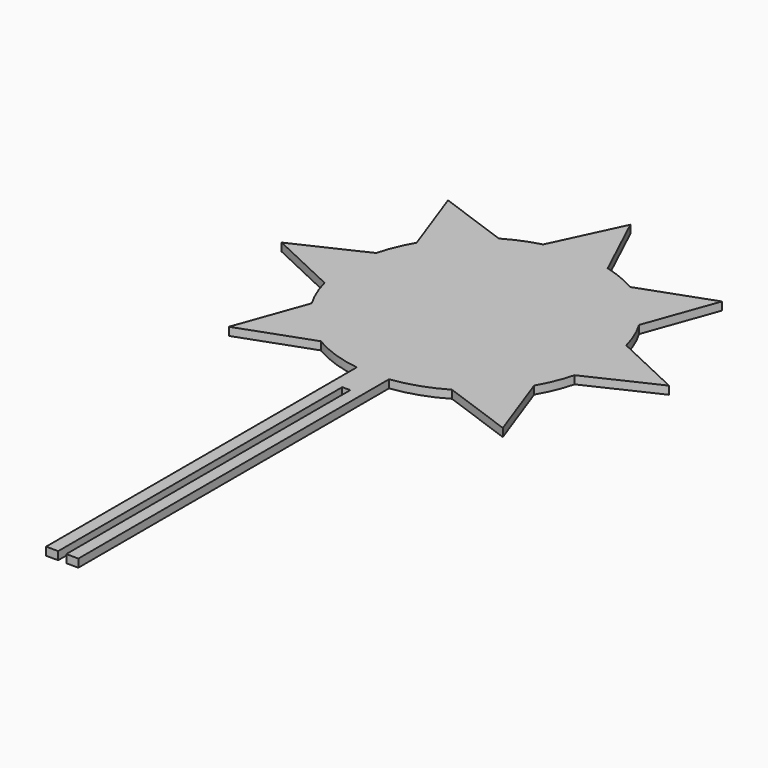
from build123d import *

# Parameters (mm, degrees)
F1_DEPTH = 3.175


with BuildPart() as f1:
    # F0 (on Top) → F1 (new body)
    with BuildSketch(Plane.XY):
        with BuildLine():
            Line((-6.35, 51.198438), (-6.35, -101.6))
            Line((-6.35, -101.6), (-1.5875, -101.6))
            Line((-1.5875, -101.6), (-1.5875, 38.1))
            Line((-1.5875, 38.1), (1.5875, 38.1))
            Line((1.5875, 38.1), (1.5875, -101.6))
            Line((1.5875, -101.6), (6.35, -101.6))
            Line((6.35, -101.6), (6.35, 51.198438))
            ThreePointArc((6.35, 51.198438), (16.414418, 53.524987), (25.800126, 57.839361))
            Line((25.800126, 57.839361), (53.881537, 47.718463))
            Line((53.881537, 47.718463), (43.760639, 75.799874))
            ThreePointArc((43.760639, 75.799874), (46.93308, 82.159682), (49.186888, 88.9))
            Line((49.186888, 88.9), (76.2, 101.6))
            Line((76.2, 101.6), (49.186888, 114.3))
            ThreePointArc((49.186888, 114.3), (46.93308, 121.040318), (43.760639, 127.400126))
            Line((43.760639, 127.400126), (53.881537, 155.481537))
            Line((53.881537, 155.481537), (25.800126, 145.360639))
            ThreePointArc((25.800126, 145.360639), (19.440318, 148.53308), (12.7, 150.786888))
            Line((12.7, 150.786888), (0, 177.8))
            Line((0, 177.8), (-12.7, 150.786888))
            ThreePointArc((-12.7, 150.786888), (-19.440318, 148.53308), (-25.800126, 145.360639))
            Line((-25.800126, 145.360639), (-53.881537, 155.481537))
            Line((-53.881537, 155.481537), (-43.760639, 127.400126))
            ThreePointArc((-43.760639, 127.400126), (-46.93308, 121.040318), (-49.186888, 114.3))
            Line((-49.186888, 114.3), (-76.2, 101.6))
            Line((-76.2, 101.6), (-49.186888, 88.9))
            ThreePointArc((-49.186888, 88.9), (-46.93308, 82.159682), (-43.760639, 75.799874))
            Line((-43.760639, 75.799874), (-53.881537, 47.718463))
            Line((-53.881537, 47.718463), (-25.800126, 57.839361))
            ThreePointArc((-25.800126, 57.839361), (-16.414418, 53.524987), (-6.35, 51.198438))
        make_face()
    extrude(amount=F1_DEPTH)


solid = f1.part
